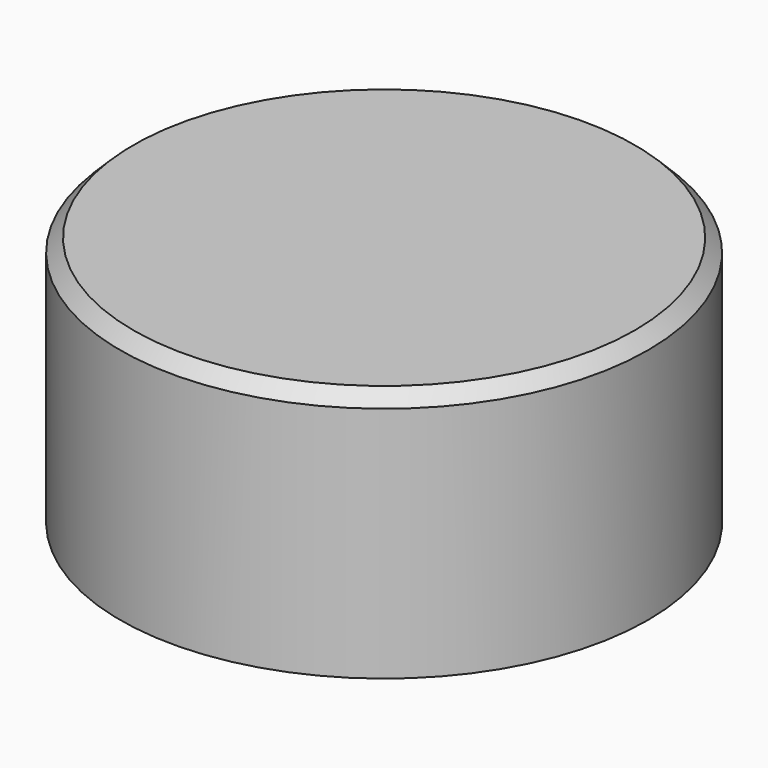
from build123d import *

# Parameters (mm, degrees)
SKETCH_R        = 20
PAD_DEPTH       = 19
SKETCH001_R     = 17
POCKET_DEPTH    = 16
CHAMFER001_SIZE = 1


with BuildPart() as part:
    # Sketch → Pad (new body)
    with BuildSketch(Plane.XY):
        Circle(SKETCH_R)
    extrude(amount=PAD_DEPTH)

    # Sketch001 (on Face2 of Pad) → Pocket (cut)
    with BuildSketch(Plane(origin=(0, 0, 0), x_dir=(1, 0, 0), z_dir=(0, 0, -1))):
        Circle(SKETCH001_R)
    extrude(amount=-POCKET_DEPTH, mode=Mode.SUBTRACT)

    # Chamfer001
    chamfer001_edges = [part.edges().sort_by_distance(p)[0] for p in [
        (-20, 0, 19),
    ]]
    chamfer(chamfer001_edges, length=CHAMFER001_SIZE)


solid = part.part
